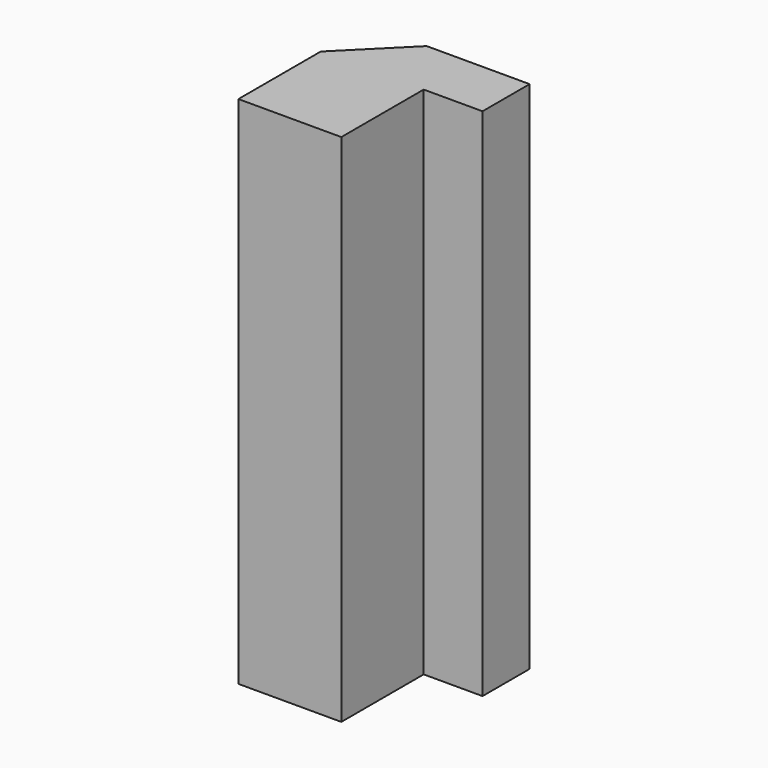
from build123d import *

# Parameters (mm, degrees)
F1_DEPTH = 70.0024
F2_SIZE  = 8.001


with BuildPart() as f1:
    # F0 (on Top) → F1 (new body)
    with BuildSketch(Plane.XY):
        Polygon((-6.9977, -10.9982), (6.9977, -10.9982), (6.9977, 2.9972), (14.9987, 2.9972), (14.9987, 10.9982), (6.9977, 10.9982), (-6.9977, 10.9982), align=None)
    extrude(amount=F1_DEPTH)

    # F2
    f2_edges = [f1.edges().sort_by_distance(p)[0] for p in [
        (-6.9977, 10.9982, 35.0012),
    ]]
    chamfer(f2_edges, length=F2_SIZE)


solid = f1.part
